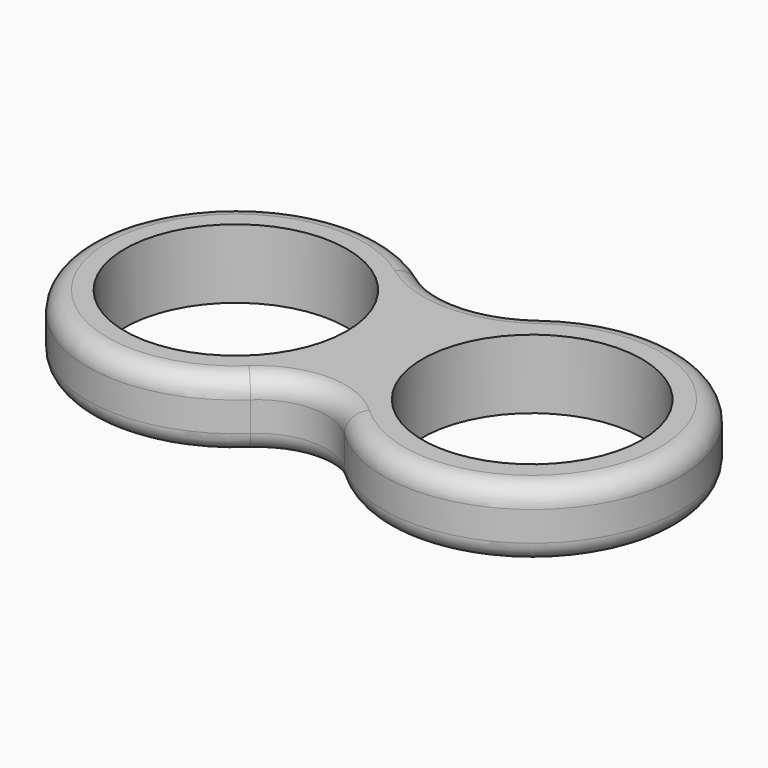
from build123d import *

# Parameters (mm, degrees)
F0_R     = 11.25
F0_R_2   = 11.1
F1_DEPTH = 7
F2_R     = 2


with BuildPart() as f1:
    # F0 (on Top) → F1 (new body)
    with BuildSketch(Plane.XY):
        with BuildLine():
            ThreePointArc((4.282726, 12.041891), (-1.773401, 10.038879), (-7.829528, 12.041891))
            ThreePointArc((-7.829528, 12.041891), (-31.74895, -0.85611), (-6.51548, -10.944179))
            ThreePointArc((-6.51548, -10.944179), (-1.773401, -9.069235), (2.968677, -10.944179))
            ThreePointArc((2.968677, -10.944179), (28.202148, -0.85611), (4.282726, 12.041891))
        make_face()
        with Locations((-16.773401, 0)):
            Circle(F0_R, mode=Mode.SUBTRACT)
        with Locations((13.226599, 0)):
            Circle(F0_R_2, mode=Mode.SUBTRACT)
    extrude(amount=F1_DEPTH)

    # F2
    f2_edges = [f1.edges().sort_by_distance(p)[0] for p in [
        (-31.74895, -0.85611, 0),
        (28.202148, -0.85611, 7),
    ]]
    fillet(f2_edges, radius=F2_R)


solid = f1.part
